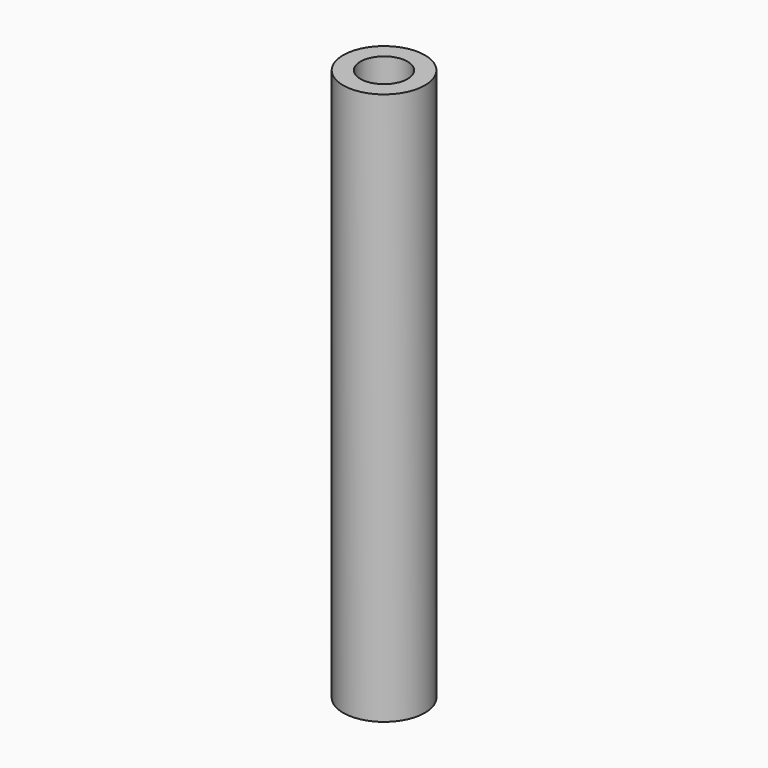
from build123d import *

# Parameters (mm, degrees)
F0_R        = 3.175
F0_R_2      = 1.8288
F1_DEPTH    = 50.8
F1_FACE_R   = 3.175
F1_FACE_R_2 = 1.8288
F2_DEPTH    = 7.90956


with BuildPart() as f1:
    # F0 (on Top) → F1 (new body)
    with BuildSketch(Plane.XY):
        Circle(F0_R)
        Circle(F0_R_2, mode=Mode.SUBTRACT)
    extrude(amount=F1_DEPTH)

    # F1_face (on face) → F2 (cut)
    with BuildSketch(Plane.XY.offset(50.8)):
        Circle(F1_FACE_R)
        Circle(F1_FACE_R_2, mode=Mode.SUBTRACT)
    extrude(amount=-F2_DEPTH, mode=Mode.SUBTRACT)


solid = f1.part
